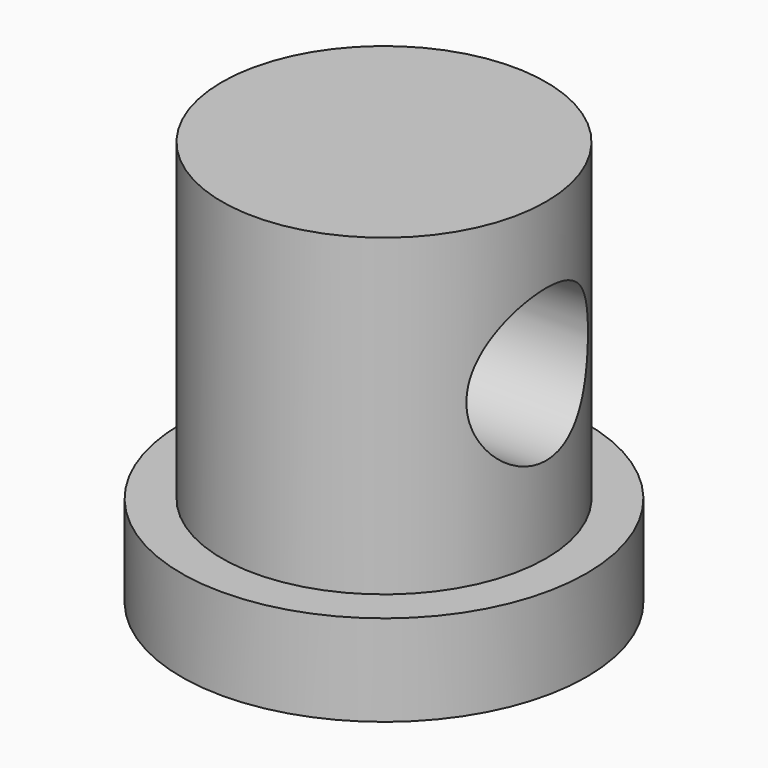
from build123d import *

# Parameters (mm, degrees)
F0_R     = 10
F1_DEPTH = 20
F2_R     = 10
F2_R_2   = 8
F3_DEPTH = 15.5
F5_R     = 3.75
F6_DEPTH = 25


with BuildPart() as f1:
    # F0 (on Top) → F1 (new body)
    with BuildSketch(Plane.XY):
        Circle(F0_R)
    extrude(amount=F1_DEPTH)

    # F2 (on face) → F3 (cut)
    with BuildSketch(Plane.XY.offset(20)):
        Circle(F2_R)
        Circle(F2_R_2, mode=Mode.SUBTRACT)
    extrude(amount=-F3_DEPTH, mode=Mode.SUBTRACT)

    # F5 (on offset) → F6 (cut)
    with BuildSketch(Plane.YZ.offset(10)):
        with Locations((0, 12.5)):
            Circle(F5_R)
    extrude(amount=-F6_DEPTH, mode=Mode.SUBTRACT)


solid = f1.part
